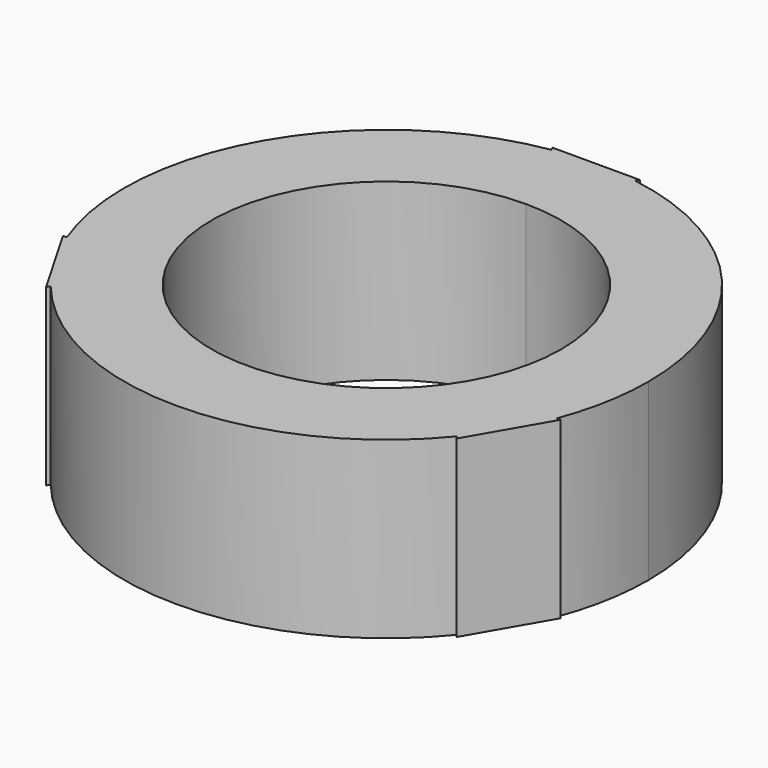
from build123d import *

# Parameters (mm, degrees)
F1_DEPTH = 12.7


with BuildPart() as f1:
    # F0 (on Top) → F1 (new body)
    with BuildSketch(Plane.XY):
        with BuildLine():
            ThreePointArc((0, 12.7), (8.9802561211, 8.9802561211), (12.7, 0))
            ThreePointArc((12.7, 0), (12.2672579939, -3.2870018728), (10.9985226281, -6.35))
            Line((10.9985226281, -6.35), (17.8106697795, -6.7588861512))
            ThreePointArc((17.8106697795, -6.7588861512), (18.7376060277, -3.4357852596), (19.05, 0))
            ThreePointArc((19.05, 0), (14.5093501963, 12.3442803306), (3.0519677815, 18.8039355631))
            Line((3.0519677815, 18.8039355631), (0, 12.7))
        make_face()
        with BuildLine():
            Line((-3.0519677815, 18.8039355631), (0, 12.7))
            Line((0, 12.7), (0, 19.05))
            ThreePointArc((0, 19.05), (-1.5309355838, 18.9883842451), (-3.0519677815, 18.8039355631))
        make_face()
        with BuildLine():
            ThreePointArc((-10.9985226281, -6.35), (-10.9985226281, 6.35), (0, 12.7))
            Line((0, 12.7), (-3.0519677815, 18.8039355631))
            ThreePointArc((-3.0519677815, 18.8039355631), (-16.4977839421, 9.525), (-17.8106697795, -6.7588861512))
            Line((-17.8106697795, -6.7588861512), (-10.9985226281, -6.35))
        make_face()
        with BuildLine():
            Line((0, 19.05), (0, 12.7))
            Line((0, 12.7), (3.0519677815, 18.8039355631))
            ThreePointArc((3.0519677815, 18.8039355631), (1.5309355838, 18.9883842451), (0, 19.05))
        make_face()
        with BuildLine():
            Line((14.758701998, -12.0450494119), (10.9985226281, -6.35))
            ThreePointArc((10.9985226281, -6.35), (0, -12.7), (-10.9985226281, -6.35))
            Line((-10.9985226281, -6.35), (-14.758701998, -12.0450494119))
            ThreePointArc((-14.758701998, -12.0450494119), (0, -19.05), (14.758701998, -12.0450494119))
        make_face()
        with BuildLine():
            Line((17.8106697795, -6.7588861512), (10.9985226281, -6.35))
            Line((10.9985226281, -6.35), (16.4977839421, -9.525))
            ThreePointArc((16.4977839421, -9.525), (17.2098909249, -8.1683630154), (17.8106697795, -6.7588861512))
        make_face()
        with BuildLine():
            Line((16.4977839421, -9.525), (10.9985226281, -6.35))
            Line((10.9985226281, -6.35), (14.758701998, -12.0450494119))
            ThreePointArc((14.758701998, -12.0450494119), (15.6789553412, -10.8200212296), (16.4977839421, -9.525))
        make_face()
        with BuildLine():
            Line((-14.758701998, -12.0450494119), (-10.9985226281, -6.35))
            Line((-10.9985226281, -6.35), (-16.4977839421, -9.525))
            ThreePointArc((-16.4977839421, -9.525), (-15.6789553412, -10.8200212296), (-14.758701998, -12.0450494119))
        make_face()
        with BuildLine():
            Line((-16.4977839421, -9.525), (-10.9985226281, -6.35))
            Line((-10.9985226281, -6.35), (-17.8106697795, -6.7588861512))
            ThreePointArc((-17.8106697795, -6.7588861512), (-17.2098909249, -8.1683630154), (-16.4977839421, -9.525))
        make_face()
        with BuildLine():
            Line((3.175, 19.05), (0, 19.05))
            ThreePointArc((0, 19.05), (1.5309355838, 18.9883842451), (3.0519677815, 18.8039355631))
            Line((3.0519677815, 18.8039355631), (3.175, 19.05))
        make_face()
        with BuildLine():
            ThreePointArc((-3.0519677815, 18.8039355631), (-1.5309355838, 18.9883842451), (0, 19.05))
            Line((0, 19.05), (-3.175, 19.05))
            Line((-3.175, 19.05), (-3.0519677815, 18.8039355631))
        make_face()
        with BuildLine():
            Line((14.9102839421, -12.274630657), (16.4977839421, -9.525))
            ThreePointArc((16.4977839421, -9.525), (15.6789553412, -10.8200212296), (14.758701998, -12.0450494119))
            Line((14.758701998, -12.0450494119), (14.9102839421, -12.274630657))
        make_face()
        with BuildLine():
            ThreePointArc((17.8106697795, -6.7588861512), (17.2098909249, -8.1683630154), (16.4977839421, -9.525))
            Line((16.4977839421, -9.525), (18.0852839421, -6.775369343))
            Line((18.0852839421, -6.775369343), (17.8106697795, -6.7588861512))
        make_face()
        with BuildLine():
            Line((-18.0852839421, -6.775369343), (-16.4977839421, -9.525))
            ThreePointArc((-16.4977839421, -9.525), (-17.2098909249, -8.1683630154), (-17.8106697795, -6.7588861512))
            Line((-17.8106697795, -6.7588861512), (-18.0852839421, -6.775369343))
        make_face()
        with BuildLine():
            ThreePointArc((-14.758701998, -12.0450494119), (-15.6789553412, -10.8200212296), (-16.4977839421, -9.525))
            Line((-16.4977839421, -9.525), (-14.9102839421, -12.274630657))
            Line((-14.9102839421, -12.274630657), (-14.758701998, -12.0450494119))
        make_face()
    extrude(amount=F1_DEPTH)


solid = f1.part
